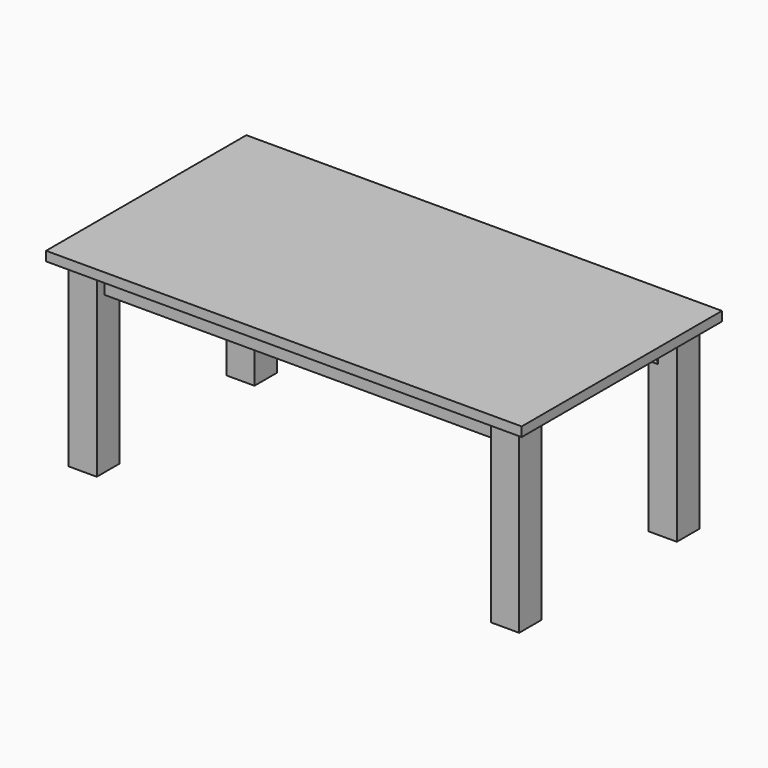
from build123d import *

# Parameters (mm, degrees)
F0_W      = 1930.4
F0_H      = 1016
F1_DEPTH  = 38.1
F3_W      = 114.3
F3_H      = 114.3
F4_DEPTH  = 736.6
F7_DEPTH  = 127
F10_W     = 19.05
F10_H     = 101.6
F11_DEPTH = 1600.2


with BuildPart() as f1:
    # F0 (on Top) → F1 (new body)
    with BuildSketch(Plane.XY):
        with Locations((965.2, 508)):
            Rectangle(F0_W, F0_H)
    extrude(amount=-F1_DEPTH)


with BuildPart() as f4:
    # F3 (on face) → F4 (new body)
    with BuildSketch(Plane(origin=(0, 0, -38.1), x_dir=(1, 0, 0), z_dir=(0, 0, -1))):
        with Locations((107.95, -107.95)):
            Rectangle(F3_W, F3_H)
    extrude(amount=F4_DEPTH)

    # F6 (on face) → F7 (cut)
    with BuildSketch(Plane.XY.offset(-38.1)):
        Polygon((165.1, 165.1), (127, 165.1), (165.1, 127), align=None)
    extrude(amount=-F7_DEPTH, mode=Mode.SUBTRACT)


with BuildPart() as f8_1:
    # F8: instance of F4
    add(f4.part.mirror(Plane.XZ.offset(-508)))


with BuildPart() as f9_1:
    # F9: instance of F8_1
    add(f8_1.part.mirror(Plane.YZ.offset(965.2)))


with BuildPart() as f9_2:
    # F9: instance of F4
    add(f4.part.mirror(Plane.YZ.offset(965.2)))


with BuildPart() as f11:
    # F10 (on face) → F11 (new body, through all)
    with BuildSketch(Plane.YZ.offset(165.1)):
        with Locations((98.425, -88.9)):
            Rectangle(F10_W, F10_H)
    extrude(amount=F11_DEPTH)


solid = Compound([f1.part, f4.part, f8_1.part, f9_1.part, f9_2.part, f11.part])
